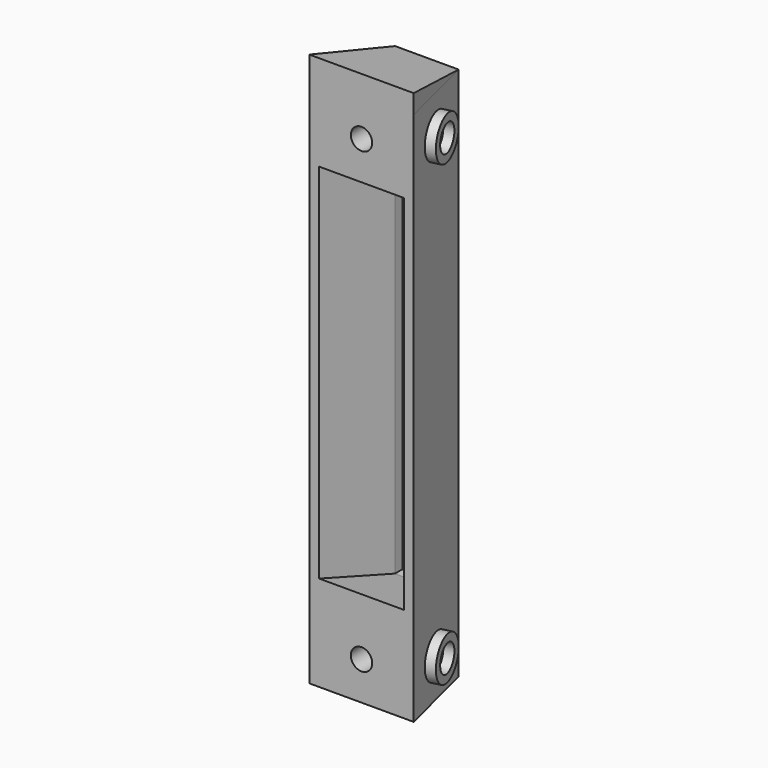
from build123d import *

# Parameters (mm, degrees)
F1_DEPTH        = 127
F3_DEPTH        = 25.4
F5_DEPTH        = 25.4
F12_DEPTH       = 3.1760001
F14_D           = 7.112
F14_CBORE_D     = 19.05
F14_CBORE_DEPTH = 6.35
F15_R           = 7.112
F15_R_2         = 4.445
F16_DEPTH       = 3.175
F17_R           = 7.112
F17_R_2         = 4.445
F18_DEPTH       = 3.175


with BuildPart() as f1:
    # F0 (on Top) → F1 (new body)
    with BuildSketch(Plane.XY):
        Polygon((-10.5701125115, 27.1786895925), (-17.3647849097, 0), (-14.0920698193, 0), (-8.0911474212, 24.0036895925), (8.0911474212, 24.0036895925), (14.0920698193, 0), (17.3647849097, 0), (10.5701125115, 27.1786895925), align=None)
    extrude(amount=F1_DEPTH)

    # F2 (on face) → F3 (join)
    with BuildSketch(Plane(origin=(0, 0, 0), x_dir=(1, 0, 0), z_dir=(0, 0, -1))):
        Polygon((8.0911474212, -24.0036895925), (14.0920698193, 0), (-14.0920698193, 0), (-8.0911474212, -24.0036895925), align=None)
        Polygon((17.3647849097, 0), (14.0920698193, 0), (8.0911474212, -24.0036895925), (-8.0911474212, -24.0036895925), (-14.0920698193, 0), (-17.3647849097, 0), (-10.5701125115, -27.1786895925), (10.5701125115, -27.1786895925), align=None)
    extrude(amount=F3_DEPTH)

    # F4 (on face) → F5 (join)
    with BuildSketch(Plane.XY.offset(127)):
        Polygon((-8.0911474212, 24.0036895925), (-14.0920698193, 0), (14.0920698193, 0), (8.0911474212, 24.0036895925), align=None)
        Polygon((-17.3647849097, 0), (-14.0920698193, 0), (-8.0911474212, 24.0036895925), (8.0911474212, 24.0036895925), (14.0920698193, 0), (17.3647849097, 0), (10.5701125115, 27.1786895925), (-10.5701125115, 27.1786895925), align=None)
    extrude(amount=F5_DEPTH)

    # F6 (on face) → F8 section 0
    with BuildSketch(Plane(origin=(16.3433269738, 4.0858317435, 0), x_dir=(-0.242535625, 0.9701425001, 0), z_dir=(0.9701425001, 0.242535625, 0))):
        Polygon((-4.2115789617, 158.75), (-4.2115789617, 152.4), (23.8035730273, 152.4), align=None)
    # F7 (on face) → F8 section 1
    with BuildSketch(Plane(origin=(-16.3433269738, 4.0858317435, 0), x_dir=(-0.242535625, -0.9701425001, 0), z_dir=(-0.9701425001, 0.242535625, 0))):
        Polygon((-23.8035730273, 152.4), (4.2115789617, 152.4), (4.2115789617, 158.75), align=None)
    loft()

    # F10 (on face) → F11 section 0
    with BuildSketch(Plane(origin=(-13.2631245358, 3.315781134, 0), x_dir=(0.242535625, 0.9701425001, 0), z_dir=(0.9701425001, -0.242535625, 0))):
        Polygon((-3.4178289617, 6.35), (-3.4178289617, 0), (21.324607937, 0), align=None)
    # F9 (on face) → F11 section 1
    with BuildSketch(Plane(origin=(13.2631245358, 3.315781134, 0), x_dir=(0.242535625, -0.9701425001, 0), z_dir=(-0.9701425001, -0.242535625, 0))):
        Polygon((-21.324607937, 0), (3.4178289617, 0), (3.4178289617, 6.35), align=None)
    loft()

    # F12 (cut, through all): a face of the model
    f12_faces = [f1.faces().sort_by_distance(p)[0] for p in [
        (0, 24.0036895925, 63.5),
    ]]
    extrude(f12_faces, amount=-F12_DEPTH, mode=Mode.SUBTRACT)

    # F14 (through all)
    with Locations(Plane(origin=(0, 27.1786895925, 0), x_dir=(-1, 0, 0), z_dir=(0, 1, 0))):
        with Locations((0, 139.7), (0, -12.7)):
            CounterBoreHole(F14_D / 2, F14_CBORE_D / 2, F14_CBORE_DEPTH)

    # F15 (on face) → F16 (join)
    with BuildSketch(Plane(origin=(16.3433269738, 4.0858317435, 0), x_dir=(-0.242535625, 0.9701425001, 0), z_dir=(0.9701425001, 0.242535625, 0))):
        with Locations((9.7959970328, 139.7)):
            Circle(F15_R)
        with Locations((9.7959970328, 139.7)):
            Circle(F15_R_2, mode=Mode.SUBTRACT)
        with Locations((9.7959970328, -12.7)):
            Circle(F15_R)
        with Locations((9.7959970328, -12.7)):
            Circle(F15_R_2, mode=Mode.SUBTRACT)
    extrude(amount=F16_DEPTH)

    # F17 (on face) → F18 (join)
    with BuildSketch(Plane(origin=(-16.3433269738, 4.0858317435, 0), x_dir=(-0.242535625, -0.9701425001, 0), z_dir=(-0.9701425001, 0.242535625, 0))):
        with Locations((-9.7959970328, 139.7)):
            Circle(F17_R)
        with Locations((-9.7959970328, 139.7)):
            Circle(F17_R_2, mode=Mode.SUBTRACT)
        with Locations((-9.7959970328, -12.7)):
            Circle(F17_R)
        with Locations((-9.7959970328, -12.7)):
            Circle(F17_R_2, mode=Mode.SUBTRACT)
    extrude(amount=F18_DEPTH)


solid = f1.part
